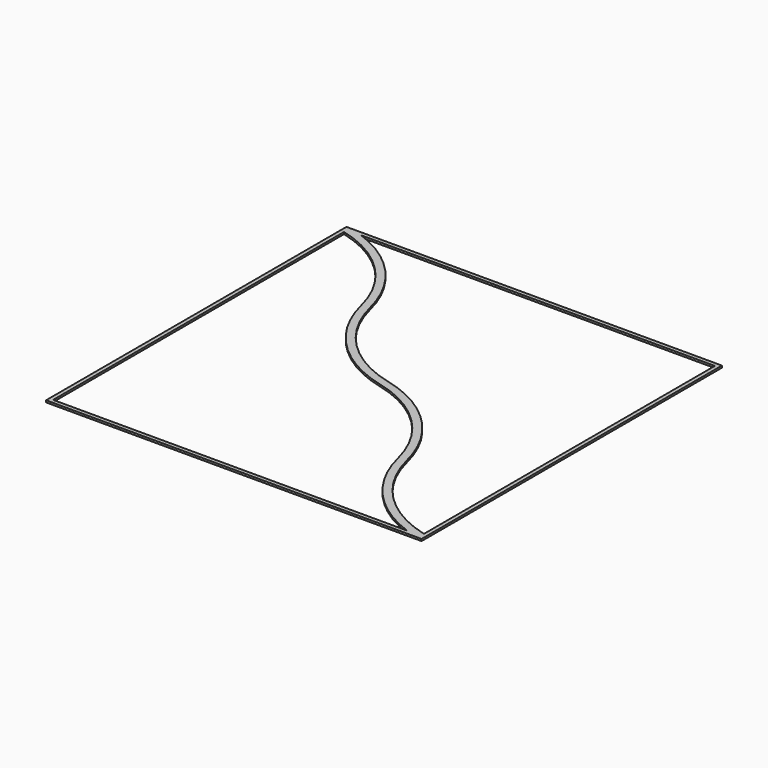
from build123d import *

# Parameters (mm, degrees)
F0_W     = 152.4
F0_H     = 152.4
F1_DEPTH = 0.79375


with BuildPart() as f1:
    # F0 (on Top) → F1 (new body)
    with BuildSketch(Plane.XY):
        Rectangle(F0_W, F0_H)
        with BuildLine():
            Line((-74.6125, -74.6125), (-74.6125, 72.976828))
            ThreePointArc((-74.6125, 72.976828), (-51.722258, 59.922254), (-38.848483, 36.929844))
            ThreePointArc((-38.848483, 36.929844), (-24.998459, 12.307794), (-0.376409, -1.54223))
            ThreePointArc((-0.376409, -1.54223), (22.753391, -14.552855), (35.764017, -37.682656))
            ThreePointArc((35.764017, -37.682656), (47.760896, -60.353838), (69.082203, -74.6125))
            Line((69.082203, -74.6125), (-74.6125, -74.6125))
        make_face(mode=Mode.SUBTRACT)
        with BuildLine():
            ThreePointArc((-35.764023, 37.682662), (-47.7609, 60.35384), (-69.082203, 74.6125))
            Line((-69.082203, 74.6125), (74.6125, 74.6125))
            Line((74.6125, 74.6125), (74.6125, -72.976828))
            ThreePointArc((74.6125, -72.976828), (51.722255, -59.922252), (38.848477, -36.929838))
            ThreePointArc((38.848477, -36.929838), (24.998456, -12.307791), (0.376409, 1.54223))
            ThreePointArc((0.376409, 1.54223), (-22.753395, 14.552858), (-35.764023, 37.682662))
        make_face(mode=Mode.SUBTRACT)
    extrude(amount=F1_DEPTH)


solid = f1.part
